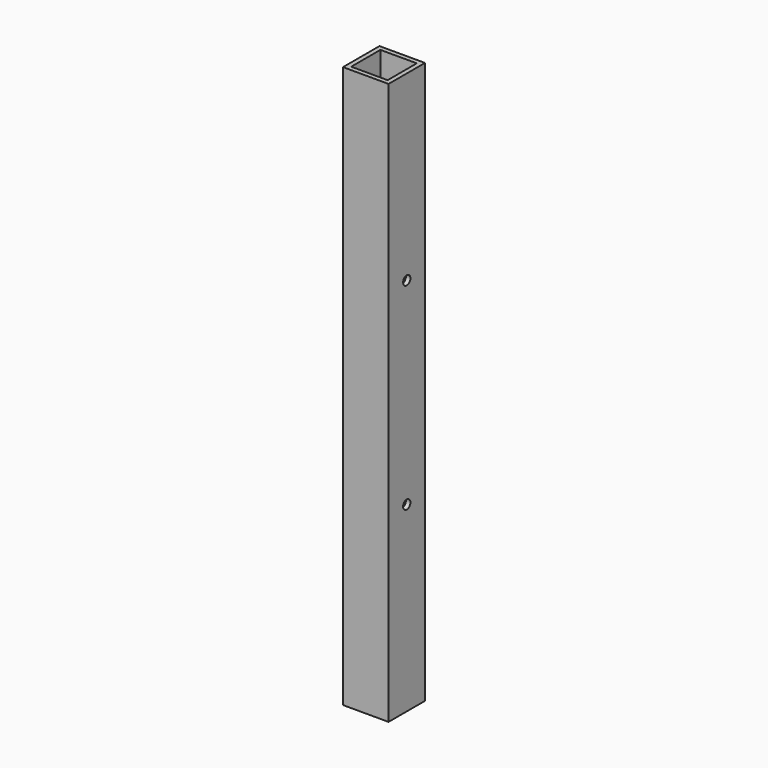
from build123d import *

# Parameters (mm, degrees)
SKETCH_W     = 15
SKETCH_H     = 15
SKETCH_W_2   = 12
SKETCH_H_2   = 12
PAD_DEPTH    = 185
SKETCH001_R  = 1.5
POCKET_DEPTH = 5


with BuildPart() as part:
    # Sketch → Pad (new body)
    with BuildSketch(Plane.XY):
        Rectangle(SKETCH_W, SKETCH_H)
        Rectangle(SKETCH_W_2, SKETCH_H_2, mode=Mode.SUBTRACT)
    extrude(amount=PAD_DEPTH)

    # Sketch001 → Pocket (cut)
    with BuildSketch(Plane.YZ.offset(7.5)):
        with Locations((0, 60)):
            Circle(SKETCH001_R)
        with Locations((0, 125)):
            Circle(SKETCH001_R)
    extrude(amount=-POCKET_DEPTH, mode=Mode.SUBTRACT)


solid = part.part
